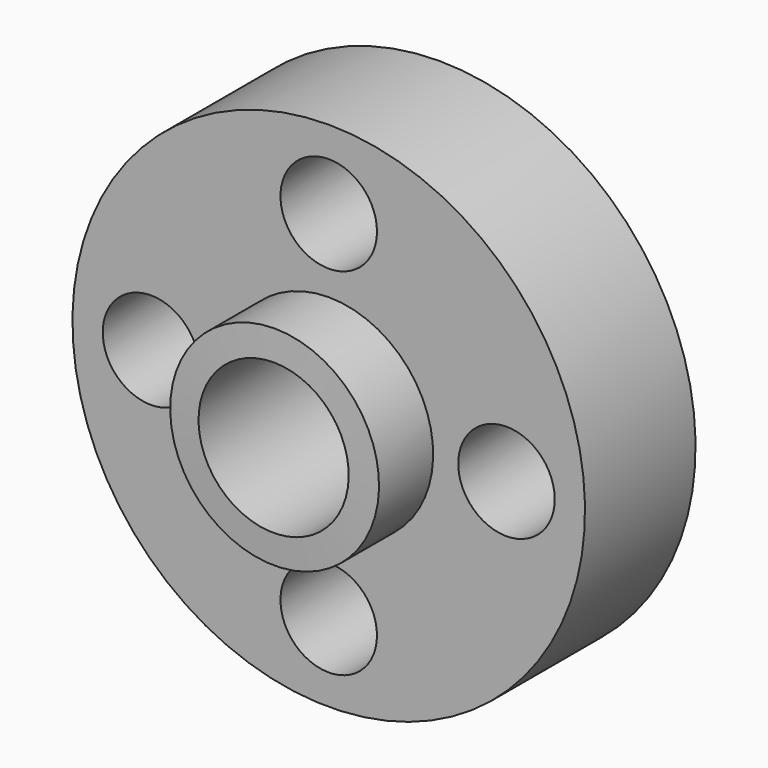
from build123d import *

# Parameters (mm, degrees)
F2_R     = 3.344047
F3_DEPTH = 11.1008


with BuildPart() as f1:
    # F0 (on Right) → F1 (revolve)
    with BuildSketch(Plane.YZ):
        Polygon((0.085442, 7.236881), (0, 5.203378), (15.875, 5.203378), (15.875, 8.552678), (14.351, 8.552678), (14.351, 17.763254), (4.7752, 17.763254), (4.7752, 7.236881), align=None)
    revolve(axis=Axis((0, -0.811693, 0), (0, 1, 0)))

    # F2 (on face) → F3 (cut, through all)
    with BuildSketch(Plane.XZ.offset(-4.7752)):
        with Locations((0, 12.318773)):
            Circle(F2_R)
        with Locations((-12.318773, 0)):
            Circle(F2_R)
        with Locations((0, -12.318773)):
            Circle(F2_R)
        with Locations((12.318773, 0)):
            Circle(F2_R)
    extrude(amount=-F3_DEPTH, mode=Mode.SUBTRACT)


solid = f1.part
